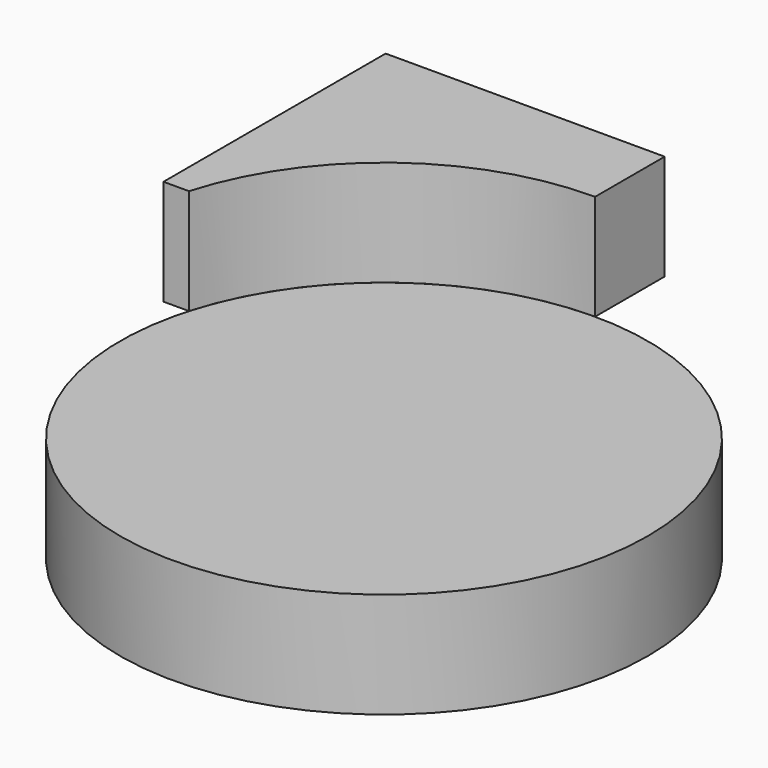
from build123d import *

# Parameters (mm, degrees)
F0_R     = 63.5
F1_DEPTH = 25.4
F3_DEPTH = 25.4


with BuildPart() as f1:
    # F0 (on Top) → F1 (new body)
    with BuildSketch(Plane.XY):
        Circle(F0_R)
    extrude(amount=F1_DEPTH)


with BuildPart() as f3:
    # F2 (on face) → F3 (new body)
    with BuildSketch(Plane.XY.offset(25.4)):
        with BuildLine():
            Line((0, 84.418818), (-67.13631, 84.418818))
            Line((-67.13631, 84.418818), (-67.13631, 17.617598))
            Line((-67.13631, 17.617598), (-61.007133, 17.617598))
            ThreePointArc((-61.007133, 17.617598), (-38.167607, 50.749224), (0, 63.5))
            Line((0, 63.5), (0, 84.418818))
        make_face()
    extrude(amount=F3_DEPTH)


solid = Compound([f1.part, f3.part])
